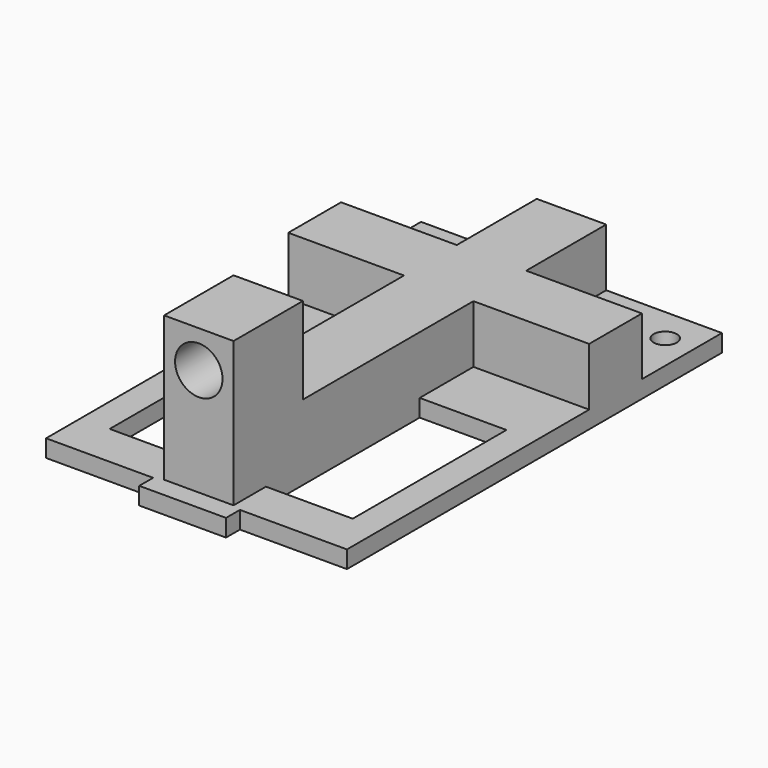
from build123d import *

# Parameters (mm, degrees)
F0_W     = 15
F0_H     = 33.2100428641
F0_W_2   = 15.0000001043
F0_R     = 2
F1_DEPTH = 3
F3_DEPTH = 10
F4_W     = 12
F4_H     = 15
F5_DEPTH = 15
F6_R     = 4.1
F7_DEPTH = 25


with BuildPart() as f1:
    # F0 (on Top) → F1 (new body)
    with BuildSketch(Plane.XY):
        Polygon((-36.0946140587, -40.7030668556), (-17.5946140587, -40.7030668556), (-17.5946140587, 40.2969331444), (-69.5946140587, 40.2969331444), (-69.5946140587, -40.7030668556), (-51.0946140587, -40.7030668556), align=None)
        with Locations((-57.0946140587, -16.605021432)):
            Rectangle(F0_W, F0_H, mode=Mode.SUBTRACT)
        with Locations((-30.0946140066, -16.605021432)):
            Rectangle(F0_W_2, F0_H, mode=Mode.SUBTRACT)
        with Locations((-64.5946140587, 34.2969331444)):
            Circle(F0_R, mode=Mode.SUBTRACT)
        with Locations((-22.5946139544, 34.2969331444)):
            Circle(F0_R, mode=Mode.SUBTRACT)
        Polygon((-36.0946140587, -43.7030668556), (-36.0946140587, -40.7030668556), (-51.0946140587, -40.7030668556), (-51.0946140587, -43.7030668556), (-43.5946140587, -43.7030668556), align=None)
    extrude(amount=F1_DEPTH)

    # F2 (on face) → F3 (join)
    with BuildSketch(Plane.XY.offset(3)):
        Polygon((-49.5946140587, 11.6144362837), (-49.5946140587, 0), (-49.5946140587, -33.2100428641), (-49.5946140587, -40.2100428641), (-37.5946140587, -40.2100428641), (-37.5946140587, -33.2100428641), (-37.5946140587, 0), (-37.5946140587, 11.6144362837), (-17.5946140587, 11.6144362837), (-17.5946140587, 23.017546162), (-37.5946140587, 23.017546162), (-37.5946140587, 40.2969331444), (-49.5946140587, 40.2969331444), (-49.5946140587, 23.017546162), (-69.5946140587, 23.017546162), (-69.5946140587, 11.6144362837), align=None)
    extrude(amount=F3_DEPTH)

    # F4 (on face) → F5 (join)
    with BuildSketch(Plane.XY.offset(13)):
        with Locations((-43.5946140587, -32.7100428641)):
            Rectangle(F4_W, F4_H)
    extrude(amount=F5_DEPTH)

    # F6 (on face) → F7 (cut)
    with BuildSketch(Plane(origin=(0, -25.2100428641, 0), x_dir=(-1, 0, 0), z_dir=(0, 1, 0))):
        with Locations((43.5946140587, 21.6)):
            Circle(F6_R)
    extrude(amount=-F7_DEPTH, mode=Mode.SUBTRACT)


solid = f1.part
